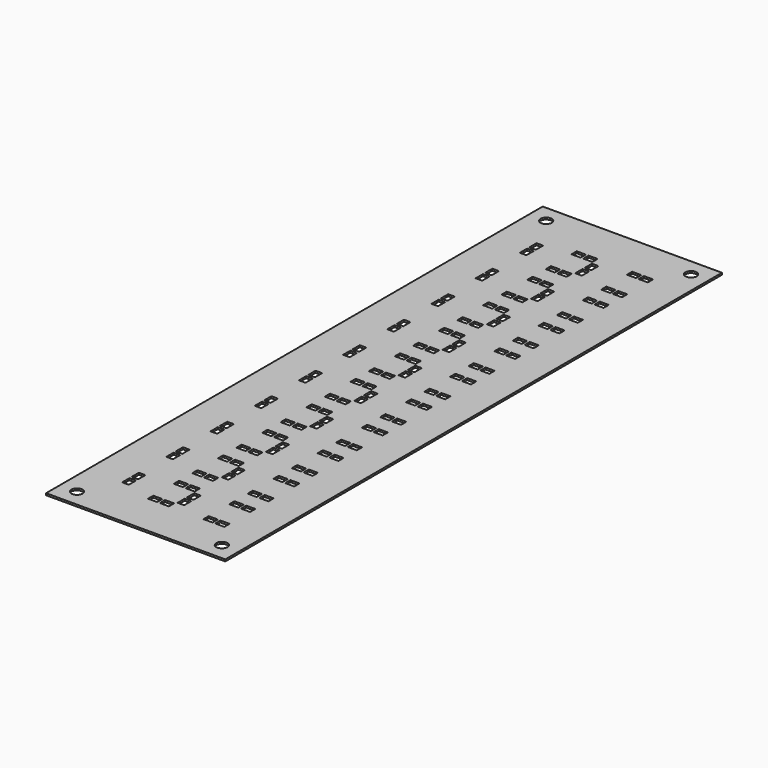
from build123d import *

# Parameters (mm, degrees)
F0_W     = 54.2288
F0_H     = 187.833
F0_R     = 1.69
F1_DEPTH = 0.57
F2_W     = 1.981
F2_H     = 2.743
F2_W_2   = 2.743
F2_H_2   = 1.981
F3_DEPTH = 3


with BuildPart() as f1:
    # F0 (on Top) → F1 (new body)
    with BuildSketch(Plane.XY):
        Rectangle(F0_W, F0_H)
        with Locations((-21.9204, -88.7225)):
            Circle(F0_R, mode=Mode.SUBTRACT)
        with Locations((21.9204, -88.7225)):
            Circle(F0_R, mode=Mode.SUBTRACT)
        with Locations((-21.9203, 88.7222)):
            Circle(F0_R, mode=Mode.SUBTRACT)
        with Locations((21.9204, 88.7225)):
            Circle(F0_R, mode=Mode.SUBTRACT)
    extrude(amount=F1_DEPTH)

    # F2 (on face) → F3 (cut)
    with BuildSketch(Plane.XY.offset(0.57)):
        with Locations((-15.5449, -76.987)):
            Rectangle(F2_W, F2_H)
        with Locations((-5.1629, -80.086)):
            Rectangle(F2_W_2, F2_H_2)
        with Locations((-15.5449, -73.431)):
            Rectangle(F2_W, F2_H)
        with Locations((-1.6069, -80.086)):
            Rectangle(F2_W_2, F2_H_2)
        with Locations((-1.6069, -70.333)):
            Rectangle(F2_W_2, F2_H_2)
        with Locations((-5.1629, -70.333)):
            Rectangle(F2_W_2, F2_H_2)
        with Locations((15.1611, -70.333)):
            Rectangle(F2_W_2, F2_H_2)
        with Locations((15.1611, -80.086)):
            Rectangle(F2_W_2, F2_H_2)
        with Locations((1.2231, -76.987)):
            Rectangle(F2_W, F2_H)
        with Locations((1.2231, -73.431)):
            Rectangle(F2_W, F2_H)
        with Locations((11.6051, -70.333)):
            Rectangle(F2_W_2, F2_H_2)
        with Locations((11.6051, -80.086)):
            Rectangle(F2_W_2, F2_H_2)
        with Locations((1.2231, -60.274)):
            Rectangle(F2_W, F2_H)
        with Locations((-15.5449, -60.274)):
            Rectangle(F2_W, F2_H)
        with Locations((-1.6069, -63.373)):
            Rectangle(F2_W_2, F2_H_2)
        with Locations((-1.6069, -53.62)):
            Rectangle(F2_W_2, F2_H_2)
        with Locations((15.1611, -53.62)):
            Rectangle(F2_W_2, F2_H_2)
        with Locations((15.1611, -63.373)):
            Rectangle(F2_W_2, F2_H_2)
        with Locations((-15.5449, -56.718)):
            Rectangle(F2_W, F2_H)
        with Locations((1.2231, -56.718)):
            Rectangle(F2_W, F2_H)
        with Locations((11.6051, -53.62)):
            Rectangle(F2_W_2, F2_H_2)
        with Locations((11.6051, -63.373)):
            Rectangle(F2_W_2, F2_H_2)
        with Locations((-5.1629, -53.62)):
            Rectangle(F2_W_2, F2_H_2)
        with Locations((-5.1629, -63.373)):
            Rectangle(F2_W_2, F2_H_2)
        with Locations((1.2231, -26.848)):
            Rectangle(F2_W, F2_H)
        with Locations((15.1611, -36.907)):
            Rectangle(F2_W_2, F2_H_2)
        with Locations((1.2231, -40.005)):
            Rectangle(F2_W, F2_H)
        with Locations((15.1611, -46.66)):
            Rectangle(F2_W_2, F2_H_2)
        with Locations((-1.6069, -46.66)):
            Rectangle(F2_W_2, F2_H_2)
        with Locations((1.2231, -23.292)):
            Rectangle(F2_W, F2_H)
        with Locations((-15.5449, -26.848)):
            Rectangle(F2_W, F2_H)
        with Locations((-15.5449, -43.561)):
            Rectangle(F2_W, F2_H)
        with Locations((-1.6069, -36.907)):
            Rectangle(F2_W_2, F2_H_2)
        with Locations((15.1611, -20.194)):
            Rectangle(F2_W_2, F2_H_2)
        with Locations((1.2231, -43.561)):
            Rectangle(F2_W, F2_H)
        with Locations((-1.6069, -29.947)):
            Rectangle(F2_W_2, F2_H_2)
        with Locations((15.1611, -29.947)):
            Rectangle(F2_W_2, F2_H_2)
        with Locations((-1.6069, -20.194)):
            Rectangle(F2_W_2, F2_H_2)
        with Locations((11.6051, -36.907)):
            Rectangle(F2_W_2, F2_H_2)
        with Locations((-5.1629, -46.66)):
            Rectangle(F2_W_2, F2_H_2)
        with Locations((-15.5449, -40.005)):
            Rectangle(F2_W, F2_H)
        with Locations((-5.1629, -36.907)):
            Rectangle(F2_W_2, F2_H_2)
        with Locations((-5.1629, -29.947)):
            Rectangle(F2_W_2, F2_H_2)
        with Locations((-5.1629, -20.194)):
            Rectangle(F2_W_2, F2_H_2)
        with Locations((11.6051, -20.194)):
            Rectangle(F2_W_2, F2_H_2)
        with Locations((-15.5449, -23.292)):
            Rectangle(F2_W, F2_H)
        with Locations((11.6051, -46.66)):
            Rectangle(F2_W_2, F2_H_2)
        with Locations((11.6051, -29.947)):
            Rectangle(F2_W_2, F2_H_2)
        with Locations((1.2231, 40.004)):
            Rectangle(F2_W, F2_H)
        with Locations((1.2231, 23.291)):
            Rectangle(F2_W, F2_H)
        with Locations((-15.5449, 26.847)):
            Rectangle(F2_W, F2_H)
        with Locations((-1.6069, 20.192)):
            Rectangle(F2_W_2, F2_H_2)
        with Locations((1.2231, -10.135)):
            Rectangle(F2_W, F2_H)
        with Locations((11.6051, -13.234)):
            Rectangle(F2_W_2, F2_H_2)
        with Locations((-15.5449, 6.578)):
            Rectangle(F2_W, F2_H)
        with Locations((-1.6069, 36.905)):
            Rectangle(F2_W_2, F2_H_2)
        with Locations((15.1611, -13.234)):
            Rectangle(F2_W_2, F2_H_2)
        with Locations((-1.6069, 3.479)):
            Rectangle(F2_W_2, F2_H_2)
        with Locations((1.2231, 6.578)):
            Rectangle(F2_W, F2_H)
        with Locations((1.2231, 43.56)):
            Rectangle(F2_W, F2_H)
        with Locations((-15.5449, 40.004)):
            Rectangle(F2_W, F2_H)
        with Locations((-15.5449, 10.134)):
            Rectangle(F2_W, F2_H)
        with Locations((-1.6069, -13.234)):
            Rectangle(F2_W_2, F2_H_2)
        with Locations((-15.5449, -10.135)):
            Rectangle(F2_W, F2_H)
        with Locations((-5.1629, -13.234)):
            Rectangle(F2_W_2, F2_H_2)
        with Locations((-15.5449, 23.291)):
            Rectangle(F2_W, F2_H)
        with Locations((15.1611, 3.479)):
            Rectangle(F2_W_2, F2_H_2)
        with Locations((11.6051, 46.658)):
            Rectangle(F2_W_2, F2_H_2)
        with Locations((15.1611, 29.945)):
            Rectangle(F2_W_2, F2_H_2)
        with Locations((-1.6069, 29.945)):
            Rectangle(F2_W_2, F2_H_2)
        with Locations((-5.1629, 29.945)):
            Rectangle(F2_W_2, F2_H_2)
        with Locations((1.2231, -6.579)):
            Rectangle(F2_W, F2_H)
        with Locations((15.1611, 36.905)):
            Rectangle(F2_W_2, F2_H_2)
        with Locations((1.2231, 10.134)):
            Rectangle(F2_W, F2_H)
        with Locations((11.6051, 13.232)):
            Rectangle(F2_W_2, F2_H_2)
        with Locations((-1.6069, 46.658)):
            Rectangle(F2_W_2, F2_H_2)
        with Locations((11.6051, 3.479)):
            Rectangle(F2_W_2, F2_H_2)
        with Locations((-1.6069, -3.481)):
            Rectangle(F2_W_2, F2_H_2)
        with Locations((15.1611, 46.658)):
            Rectangle(F2_W_2, F2_H_2)
        with Locations((11.6051, 29.945)):
            Rectangle(F2_W_2, F2_H_2)
        with Locations((11.6051, 36.905)):
            Rectangle(F2_W_2, F2_H_2)
        with Locations((-5.1629, 46.658)):
            Rectangle(F2_W_2, F2_H_2)
        with Locations((-15.5449, 43.56)):
            Rectangle(F2_W, F2_H)
        with Locations((-1.6069, 13.232)):
            Rectangle(F2_W_2, F2_H_2)
        with Locations((15.1611, -3.481)):
            Rectangle(F2_W_2, F2_H_2)
        with Locations((15.1611, 13.232)):
            Rectangle(F2_W_2, F2_H_2)
        with Locations((1.2231, 26.847)):
            Rectangle(F2_W, F2_H)
        with Locations((-5.1629, 3.479)):
            Rectangle(F2_W_2, F2_H_2)
        with Locations((15.1611, 20.192)):
            Rectangle(F2_W_2, F2_H_2)
        with Locations((-5.1629, 13.232)):
            Rectangle(F2_W_2, F2_H_2)
        with Locations((11.6051, 20.192)):
            Rectangle(F2_W_2, F2_H_2)
        with Locations((-5.1629, -3.481)):
            Rectangle(F2_W_2, F2_H_2)
        with Locations((11.6051, -3.481)):
            Rectangle(F2_W_2, F2_H_2)
        with Locations((-5.1629, 20.192)):
            Rectangle(F2_W_2, F2_H_2)
        with Locations((-15.5449, -6.579)):
            Rectangle(F2_W, F2_H)
        with Locations((-5.1629, 36.905)):
            Rectangle(F2_W_2, F2_H_2)
        with Locations((-1.6069, 70.331)):
            Rectangle(F2_W_2, F2_H_2)
        with Locations((1.2231, 60.273)):
            Rectangle(F2_W, F2_H)
        with Locations((1.2231, 56.717)):
            Rectangle(F2_W, F2_H)
        with Locations((1.2231, 73.43)):
            Rectangle(F2_W, F2_H)
        with Locations((-15.5449, 56.717)):
            Rectangle(F2_W, F2_H)
        with Locations((-15.5449, 76.986)):
            Rectangle(F2_W, F2_H)
        with Locations((15.1611, 53.618)):
            Rectangle(F2_W_2, F2_H_2)
        with Locations((-1.6069, 53.618)):
            Rectangle(F2_W_2, F2_H_2)
        with Locations((-15.5449, 73.43)):
            Rectangle(F2_W, F2_H)
        with Locations((-15.5449, 60.273)):
            Rectangle(F2_W, F2_H)
        with Locations((15.1611, 70.331)):
            Rectangle(F2_W_2, F2_H_2)
        with Locations((15.1611, 80.084)):
            Rectangle(F2_W_2, F2_H_2)
        with Locations((15.1611, 63.371)):
            Rectangle(F2_W_2, F2_H_2)
        with Locations((1.2231, 76.986)):
            Rectangle(F2_W, F2_H)
        with Locations((-1.6069, 63.371)):
            Rectangle(F2_W_2, F2_H_2)
        with Locations((-1.6069, 80.084)):
            Rectangle(F2_W_2, F2_H_2)
        with Locations((-5.1629, 80.084)):
            Rectangle(F2_W_2, F2_H_2)
        with Locations((-5.1629, 63.371)):
            Rectangle(F2_W_2, F2_H_2)
        with Locations((11.6051, 70.331)):
            Rectangle(F2_W_2, F2_H_2)
        with Locations((-5.1629, 70.331)):
            Rectangle(F2_W_2, F2_H_2)
        with Locations((11.6051, 63.371)):
            Rectangle(F2_W_2, F2_H_2)
        with Locations((-5.1629, 53.618)):
            Rectangle(F2_W_2, F2_H_2)
        with Locations((11.6051, 80.084)):
            Rectangle(F2_W_2, F2_H_2)
        with Locations((11.6051, 53.618)):
            Rectangle(F2_W_2, F2_H_2)
    extrude(amount=-F3_DEPTH, mode=Mode.SUBTRACT)


solid = f1.part
